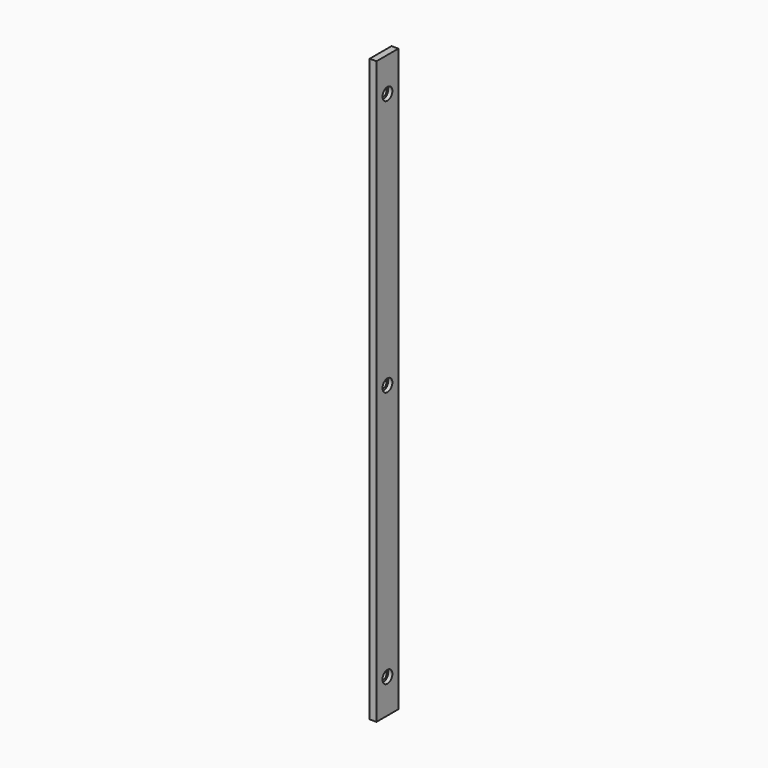
from build123d import *

# Parameters (mm, degrees)
SKETCH_W        = 10
SKETCH_H        = 40
PAD_DEPTH       = 850
SKETCH001_R     = 6
POCKET_DEPTH    = 10.001
SKETCH002_R     = 9
POCKET001_DEPTH = 6


with BuildPart() as part:
    # Sketch → Pad (new body)
    with BuildSketch(Plane.XY):
        with Locations((5, 20)):
            Rectangle(SKETCH_W, SKETCH_H)
    extrude(amount=PAD_DEPTH)

    # Sketch001 (on Face4 of Pad) → Pocket (cut, through all)
    with BuildSketch(Plane(origin=(0, 0, 0), x_dir=(0, -1, 0), z_dir=(-1, 0, 0))):
        with Locations((-20, 50)):
            Circle(SKETCH001_R)
        with Locations((-20, 425)):
            Circle(SKETCH001_R)
        with Locations((-20, 800)):
            Circle(SKETCH001_R)
    extrude(amount=-POCKET_DEPTH, mode=Mode.SUBTRACT)

    # Sketch002 (on Face3 of Pocket) → Pocket001 (cut)
    with BuildSketch(Plane.YZ.offset(10)):
        with Locations((20, 800)):
            Circle(SKETCH002_R)
        with Locations((20, 425)):
            Circle(SKETCH002_R)
        with Locations((20, 50)):
            Circle(SKETCH002_R)
    extrude(amount=-POCKET001_DEPTH, mode=Mode.SUBTRACT)


solid = part.part
